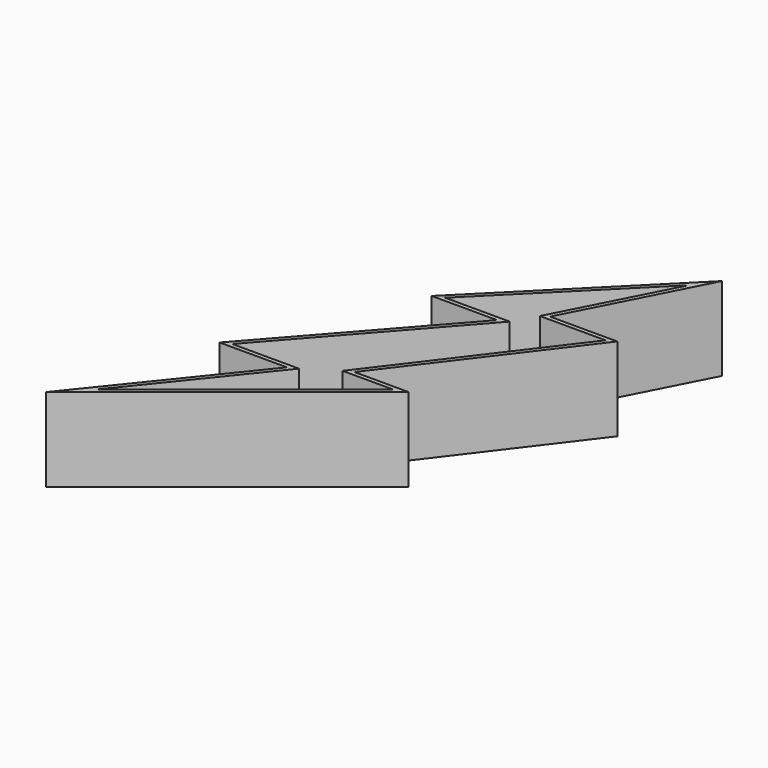
from build123d import *

# Parameters (mm, degrees)
F1_DEPTH = 25.4
F2_T     = -1.27


with BuildPart() as f1:
    # F0 (on Top) → F1 (new body)
    with BuildSketch(Plane.XY):
        Polygon((11.7702977732, 29.0053766221), (32.2281979024, 68.8001960516), (-16.8147105724, 19.7572857141), (3.0826970469, 19.7572857141), (-41.1960408092, -30.406601727), (-20.7381434739, -30.406601727), (-57.4502646923, -76.0865658522), (9.7388841726, -22.2794916481), (-6.7258845083, -22.2794916481), (32.2281979024, 29.0053766221), align=None)
    extrude(amount=F1_DEPTH)

    # F2
    f2_openings = [f1.faces().sort_by_distance(p)[0] for p in [
        (-5.320253, -2.614371, 25.4),
    ]]
    offset(amount=F2_T, openings=f2_openings, kind=Kind.INTERSECTION)


solid = f1.part
